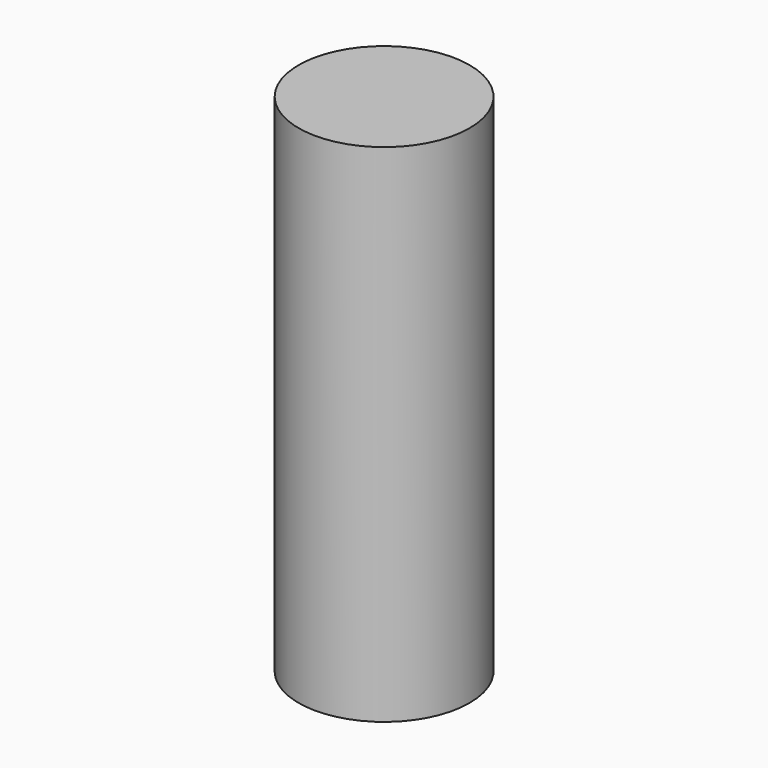
from build123d import *

# Parameters (mm, degrees)
CYLINDER_R     = 2.53365
CYLINDER_DEPTH = 15


with BuildPart() as part:
    # Cylinder → Cylinder (new body)
    with BuildSketch(Plane.XY.offset(-2.5)):
        Circle(CYLINDER_R)
    extrude(amount=CYLINDER_DEPTH)


solid = part.part
